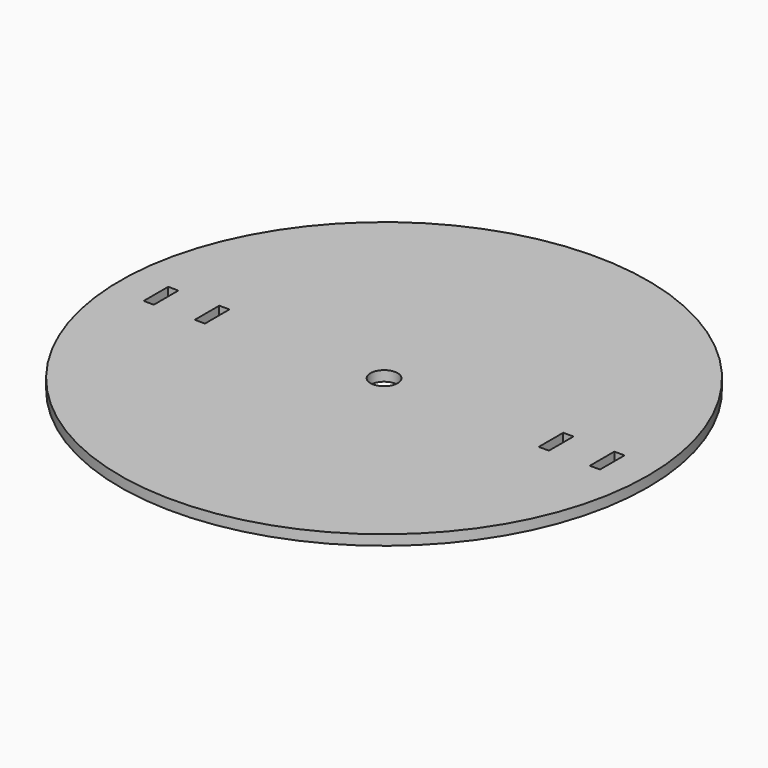
from build123d import *

# Parameters (mm, degrees)
BOX127_W          = 3
BOX127_H          = 9
BOX127_DEPTH      = 3
BOX128_W          = 3
BOX128_H          = 9
BOX128_DEPTH      = 3
BOX_W             = 3
BOX_H             = 9
BOX_DEPTH         = 3
BOX126_W          = 3
BOX126_H          = 9
BOX126_DEPTH      = 3
CYLINDER017_R     = 4
CYLINDER017_DEPTH = 3
CYLINDER_R        = 77.5
CYLINDER_DEPTH    = 3


with BuildPart() as cube049:
    # Box127 → Box127 (new body)
    with BuildSketch(Plane(origin=(49, -4.5, 0), x_dir=(1, 0, 0), z_dir=(0, 0, 1))):
        with Locations((1.5, 4.5)):
            Rectangle(BOX127_W, BOX127_H)
    extrude(amount=BOX127_DEPTH)


with BuildPart() as cube050:
    # Box128 → Box128 (new body)
    with BuildSketch(Plane(origin=(64, -4.5, 0), x_dir=(1, 0, 0), z_dir=(0, 0, 1))):
        with Locations((1.5, 4.5)):
            Rectangle(BOX128_W, BOX128_H)
    extrude(amount=BOX128_DEPTH)


with BuildPart() as cube:
    # Box → Box (new body)
    with BuildSketch(Plane(origin=(-52, -4.5, 0), x_dir=(1, 0, 0), z_dir=(0, 0, 1))):
        with Locations((1.5, 4.5)):
            Rectangle(BOX_W, BOX_H)
    extrude(amount=BOX_DEPTH)


with BuildPart() as cube048:
    # Box126 → Box126 (new body)
    with BuildSketch(Plane(origin=(-67, -4.5, 0), x_dir=(1, 0, 0), z_dir=(0, 0, 1))):
        with Locations((1.5, 4.5)):
            Rectangle(BOX126_W, BOX126_H)
    extrude(amount=BOX126_DEPTH)


with BuildPart() as cylinder001:
    # Cylinder017 → Cylinder017 (new body)
    with BuildSketch(Plane.XY):
        Circle(CYLINDER017_R)
    extrude(amount=CYLINDER017_DEPTH)


with BuildPart() as cut004:
    # Cylinder → Cylinder (new body)
    with BuildSketch(Plane.XY):
        Circle(CYLINDER_R)
    extrude(amount=CYLINDER_DEPTH)

    # Cut: cut Cylinder001
    add(cylinder001.part, mode=Mode.SUBTRACT)

    # Cut001: cut Cube048
    add(cube048.part, mode=Mode.SUBTRACT)

    # Cut002: cut Cube
    add(cube.part, mode=Mode.SUBTRACT)

    # Cut003: cut Cube050
    add(cube050.part, mode=Mode.SUBTRACT)

    # Cut004: cut Cube049
    add(cube049.part, mode=Mode.SUBTRACT)


solid = cut004.part
